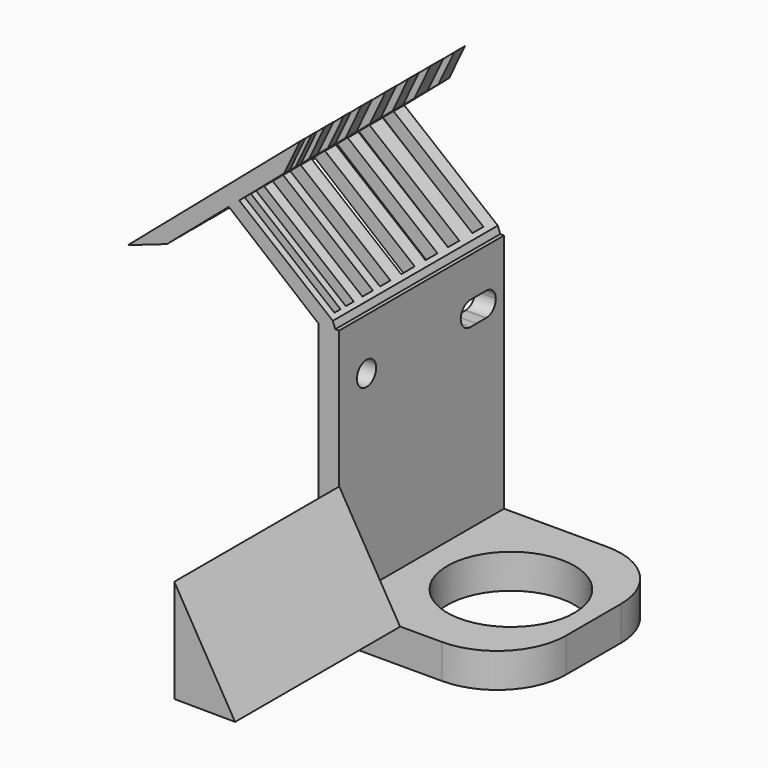
from build123d import *

# Parameters (mm, degrees)
F0_W      = 25
F0_H      = 30
F0_R      = 9.25
F0_W_2    = 3
F1_DEPTH  = 5
F2_DEPTH  = 40
F3_R      = 10
F4_R      = 1.75
F5_DEPTH  = 3.001
F7_DEPTH  = 30
F8_W      = 32.9495297466
F8_H      = 1.9953548908
F8_H_2    = 2.0693931729
F8_H_3    = 2.1812524647
F8_H_4    = 2.4609006941
F8_H_5    = 1.9016051665
F8_H_6    = 1.9016047008
F8_H_7    = 1.454168465
F8_H_8    = 1.1185912881
F9_DEPTH  = 18.69
F11_DEPTH = 30.001
F13_DEPTH = 30


with BuildPart() as f1:
    # F0 (on Top) → F1 (new body)
    with BuildSketch(Plane.XY):
        with Locations((-12.5, 15)):
            Rectangle(F0_W, F0_H)
        with Locations((-12, 15)):
            Circle(F0_R, mode=Mode.SUBTRACT)
        with Locations((-26.5, 15)):
            Rectangle(F0_W_2, F0_H)
    extrude(amount=F1_DEPTH)

    # F0 (on Top) → F2 (join)
    with BuildSketch(Plane.XY):
        with Locations((-26.5, 15)):
            Rectangle(F0_W_2, F0_H)
    extrude(amount=F2_DEPTH)

    # F3
    f3_edges = [f1.edges().sort_by_distance(p)[0] for p in [
        (0, 0, 2.5),
        (0, 30, 2.5),
    ]]
    fillet(f3_edges, radius=F3_R)

    # F4 (on face) → F5 (cut, through all)
    with BuildSketch(Plane.YZ.offset(-25)):
        with Locations((5, 32.5)):
            Circle(F4_R)
        with BuildLine():
            ThreePointArc((25.8762976423, 34.0147945214), (26.5159190074, 33.3743509381), (26.75, 32.5))
            ThreePointArc((26.75, 32.5), (26.5151696279, 31.6243510986), (25.8737017159, 30.9837067198))
            ThreePointArc((25.8737017159, 30.9837067198), (26.2572446424, 30.8193071518), (26.6688053839, 30.7503858164))
            Line((26.6688053839, 30.7503858164), (26.8316769531, 30.7504083459))
            ThreePointArc((26.8316769531, 30.7504083459), (28.015984309, 31.290286813), (28.4999993582, 32.4985012412))
            ThreePointArc((28.4999993582, 32.4985012412), (27.9856735638, 33.7376982625), (26.7450173494, 34.2484941496))
            ThreePointArc((26.7450173494, 34.2484941496), (26.2953839701, 34.1884198336), (25.8762976423, 34.0147945214))
        make_face()
        with BuildLine():
            ThreePointArc((25.313264961, 33.4976480132), (25.5661966357, 33.7873422376), (25.8762976423, 34.0147945214))
            ThreePointArc((25.8762976423, 34.0147945214), (25.5235901108, 34.1698363381), (25.1455039627, 34.2439405371))
            Line((25.1455039627, 34.2439405371), (24.8445689194, 34.243083813))
            ThreePointArc((24.8445689194, 34.243083813), (24.6385972754, 34.2122756994), (24.4377440921, 34.1572170329))
            ThreePointArc((24.4377440921, 34.1572170329), (24.9284794863, 33.8977522036), (25.313264961, 33.4976480132))
        make_face()
        with BuildLine():
            ThreePointArc((25.1455039627, 34.2439405371), (25.5235901108, 34.1698363381), (25.8762976423, 34.0147945214))
            ThreePointArc((25.8762976423, 34.0147945214), (26.2953839701, 34.1884198336), (26.7450173494, 34.2484941496))
            Line((26.7450173494, 34.2484941496), (25.1455039627, 34.2439405371))
        make_face()
        with BuildLine():
            ThreePointArc((26.6688053839, 30.7503858164), (26.2572446424, 30.8193071518), (25.8737017159, 30.9837067198))
            ThreePointArc((25.8737017159, 30.9837067198), (25.4635661352, 30.8125147591), (25.0235325622, 30.7501582304))
            Line((25.0235325622, 30.7501582304), (26.6688053839, 30.7503858164))
        make_face()
        with BuildLine():
            ThreePointArc((25.0235325622, 30.7501582304), (25.4635661352, 30.8125147591), (25.8737017159, 30.9837067198))
            ThreePointArc((25.8737017159, 30.9837067198), (25.5644222061, 31.2112923163), (25.3122242271, 31.5008526697))
            ThreePointArc((25.3122242271, 31.5008526697), (24.927751526, 31.1016985717), (24.4377457378, 30.8427824088))
            ThreePointArc((24.4377457378, 30.8427824088), (24.7037063498, 30.7752652167), (24.97695154, 30.750151787))
            Line((24.97695154, 30.750151787), (25.0235325622, 30.7501582304))
        make_face()
        with BuildLine():
            Line((24.8445689194, 34.243083813), (25.1455039627, 34.2439405371))
            ThreePointArc((25.1455039627, 34.2439405371), (24.9950179912, 34.2499929084), (24.8445689194, 34.243083813))
        make_face()
        with BuildLine():
            ThreePointArc((24.97695154, 30.750151787), (25.0002420726, 30.7500000167), (25.0235325622, 30.7501582304))
            Line((25.0235325622, 30.7501582304), (24.97695154, 30.750151787))
        make_face()
        with BuildLine():
            Line((26.8316769531, 30.7504083459), (26.6688053839, 30.7503858164))
            ThreePointArc((26.6688053839, 30.7503858164), (26.7502414308, 30.7485012579), (26.8316769531, 30.7504083459))
        make_face()
        with BuildLine():
            ThreePointArc((24.4377440921, 34.1572170329), (24.6385972754, 34.2122756994), (24.8445689194, 34.243083813))
            Line((24.8445689194, 34.243083813), (24.0543595868, 34.2408341869))
            ThreePointArc((24.0543595868, 34.2408341869), (24.248402903, 34.2098052318), (24.4377440921, 34.1572170329))
        make_face()
        with BuildLine():
            ThreePointArc((24.4377457378, 30.8427824088), (23.25, 32.4999991311), (24.4377440921, 34.1572170329))
            ThreePointArc((24.4377440921, 34.1572170329), (24.248402903, 34.2098052318), (24.0543595868, 34.2408341869))
            Line((24.0543595868, 34.2408341869), (23.6867111794, 34.2397875383))
            ThreePointArc((23.6867111794, 34.2397875383), (22.1280512127, 32.4053512558), (23.8757319025, 30.7499994584))
            ThreePointArc((23.8757319025, 30.7499994584), (24.1605392352, 30.7733706928), (24.4377457378, 30.8427824088))
        make_face()
        with BuildLine():
            Line((23.8757319025, 30.7499994584), (24.97695154, 30.750151787))
            ThreePointArc((24.97695154, 30.750151787), (24.7037063498, 30.7752652167), (24.4377457378, 30.8427824088))
            ThreePointArc((24.4377457378, 30.8427824088), (24.1605392352, 30.7733706928), (23.8757319025, 30.7499994584))
        make_face()
        with BuildLine():
            Line((23.6867111794, 34.2397875383), (24.0543595868, 34.2408341869))
            ThreePointArc((24.0543595868, 34.2408341869), (23.8705078211, 34.2499923501), (23.6867111794, 34.2397875383))
        make_face()
        with BuildLine():
            ThreePointArc((25.8737017159, 30.9837067198), (26.5151696279, 31.6243510986), (26.75, 32.5))
            ThreePointArc((26.75, 32.5), (26.5159190074, 33.3743509381), (25.8762976423, 34.0147945214))
            ThreePointArc((25.8762976423, 34.0147945214), (25.5661966357, 33.7873422376), (25.313264961, 33.4976480132))
            ThreePointArc((25.313264961, 33.4976480132), (25.545610556, 33.0226817163), (25.6254898299, 32.4999994417))
            ThreePointArc((25.6254898299, 32.4999994417), (25.5453379061, 31.9764467676), (25.3122242271, 31.5008526697))
            ThreePointArc((25.3122242271, 31.5008526697), (25.5644222061, 31.2112923163), (25.8737017159, 30.9837067198))
        make_face()
        with BuildLine():
            ThreePointArc((25.3122242271, 31.5008526697), (24.9999995959, 32.4994133448), (25.313264961, 33.4976480132))
            ThreePointArc((25.313264961, 33.4976480132), (24.9284794863, 33.8977522036), (24.4377440921, 34.1572170329))
            ThreePointArc((24.4377440921, 34.1572170329), (23.25, 32.4999991311), (24.4377457378, 30.8427824088))
            ThreePointArc((24.4377457378, 30.8427824088), (24.927751526, 31.1016985717), (25.3122242271, 31.5008526697))
        make_face()
        with BuildLine():
            ThreePointArc((25.6254898299, 32.4999994417), (25.545610556, 33.0226817163), (25.313264961, 33.4976480132))
            ThreePointArc((25.313264961, 33.4976480132), (24.9999995959, 32.4994133448), (25.3122242271, 31.5008526697))
            ThreePointArc((25.3122242271, 31.5008526697), (25.5453379061, 31.9764467676), (25.6254898299, 32.4999994417))
        make_face()
    extrude(amount=-F5_DEPTH, mode=Mode.SUBTRACT)

    # F6 (on Front) → F7 (join)
    with BuildSketch(Plane.XZ):
        Polygon((-25.9058196098, 40.9654118121), (-39.5162117863, 51.9557070245), (-41.0396176132, 50.6510883904), (-28.0414205045, 39.976708591), (-25.5407467018, 39.976708591), align=None)
        Polygon((-29.4997693367, 60.5336166234), (-30.6862313423, 62.3977148942), (-55.7127751532, 40.9654118121), (-54.2898289063, 39.3038345914), (-41.0396176132, 50.6510883904), (-39.5162117863, 51.9557070245), align=None)
    extrude(amount=-F7_DEPTH)

    # F8 (on face) → F9 (cut)
    with BuildSketch(Plane(origin=(-43.8108490147, 0, 51.1580173188), x_dir=(0.7595417599, 0, 0.6504585421), z_dir=(-0.6504585421, 0, 0.7595417599))):
        with Locations((0.8048876299, 27.0703136921)):
            Rectangle(F8_W, F8_H)
        with Locations((0.8048876299, 22.6615490392)):
            Rectangle(F8_W, F8_H_2)
        with Locations((0.8048876299, 18.6346201226)):
            Rectangle(F8_W, F8_H_3)
        with Locations((0.8048876299, 14.3560096622)):
            Rectangle(F8_W, F8_H_4)
        with Locations((0.8048876299, 10.2172228508)):
            Rectangle(F8_W, F8_H_5)
        with Locations((0.8048876299, 7.0292379241)):
            Rectangle(F8_W, F8_H_6)
        with Locations((0.8048876299, 3.7853235845)):
            Rectangle(F8_W, F8_H_7)
        with Locations((0.8048876299, 1.5481411247)):
            Rectangle(F8_W, F8_H_8)
    extrude(amount=-F9_DEPTH, mode=Mode.SUBTRACT)

    # F10 (on face) → F11 (cut, through all)
    with BuildSketch(Plane(origin=(0, 30, 0), x_dir=(-1, 0, 0), z_dir=(0, 1, 0))):
        Polygon((32.9848708997, 57.549035391), (30.6862313423, 62.3977148942), (29.4997693367, 60.5336166234), align=None)
        Polygon((50.0453349621, 42.9387464406), (54.2898289063, 39.3038345914), (55.7127751532, 40.9654118121), align=None)
    extrude(amount=-F11_DEPTH, mode=Mode.SUBTRACT)

    # F12 (on Front) → F13 (join)
    with BuildSketch(Plane.XZ):
        Polygon((-24.968046695, 20.0552176684), (-24.968046695, 5.0357975997), (-16.1222536117, 4.974368494), align=None)
    extrude(amount=F13_DEPTH)


solid = f1.part
